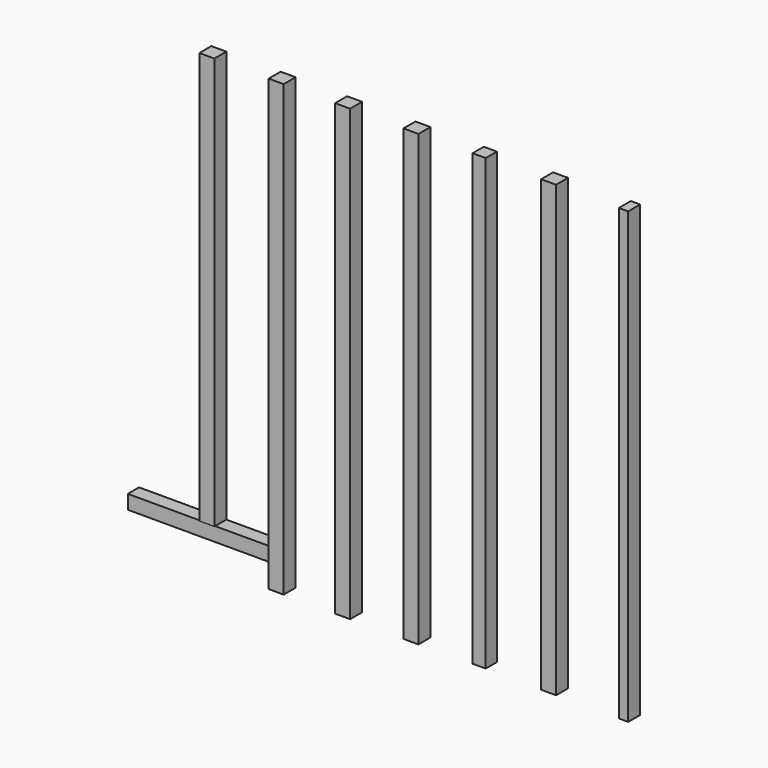
from build123d import *

# Parameters (mm, degrees)
F0_W     = 100
F0_H     = 4800
F0_W_2   = 160
F0_H_2   = 4400
F1_DEPTH = 160
F0_W_3   = 140
F2_DEPTH = 150


with BuildPart() as f1:
    # F0 (on Front) → F1 (new body)
    with BuildSketch(Plane.XZ):
        with Locations((2270, 0)):
            Rectangle(F0_W, F0_H)
        with Locations((1470, 0)):
            Rectangle(F0_W_2, F0_H)
        Rectangle(F0_W_2, F0_H)
        with Locations((-730, 0)):
            Rectangle(F0_W_2, F0_H)
        Polygon((-1360, -2400), (-1360, 2400), (-1520, 2400), (-1520, -2000), (-1520, -2150), (-1520, -2400), align=None)
        with Locations((-2180, 200)):
            Rectangle(F0_W_2, F0_H_2)
    extrude(amount=F1_DEPTH)


with BuildPart() as f2:
    # F0 (on Front) → F2 (new body)
    with BuildSketch(Plane.XZ):
        Polygon((-1520, -2150), (-1520, -2000), (-2100, -2000), (-2260, -2000), (-3032.201767, -2000), (-3032.201767, -2150), align=None)
        with Locations((720, 0)):
            Rectangle(F0_W_3, F0_H)
    extrude(amount=F2_DEPTH)


solid = Compound([f1.part, f2.part])
